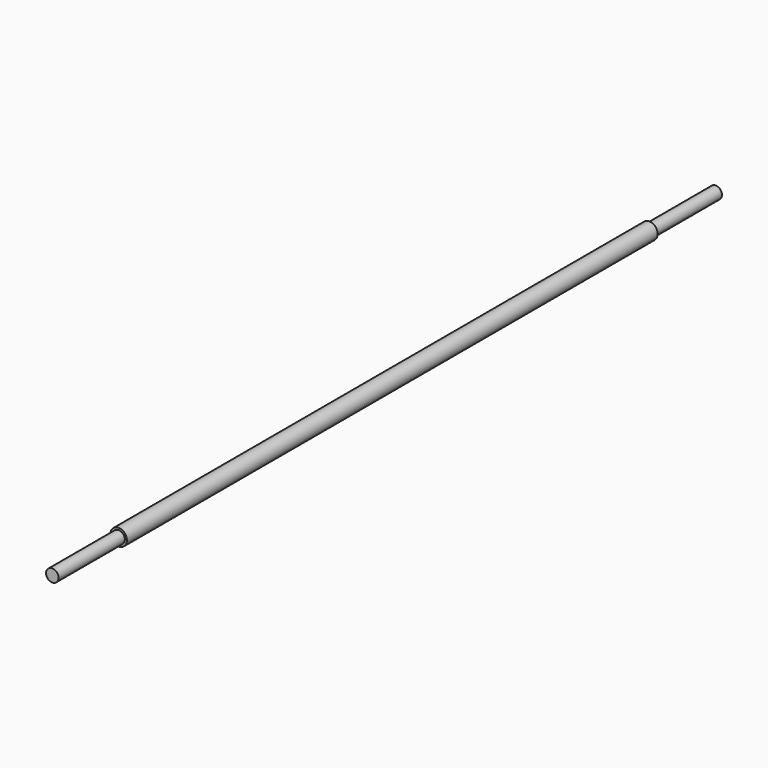
from build123d import *

# Parameters (mm, degrees)
F0_R      = 10
F1_DEPTH  = 500
F1_FACE_R = 10
F2_DEPTH  = 500
F3_R      = 10
F3_R_2    = 7.5
F4_DEPTH  = 100
F5_R      = 10
F5_R_2    = 7.5
F6_DEPTH  = 100


with BuildPart() as f1:
    # F0 (on Front) → F1 (new body)
    with BuildSketch(Plane.XZ):
        Circle(F0_R)
    extrude(amount=F1_DEPTH)

    # F1_face (on face) → F2 (join)
    with BuildSketch(Plane(origin=(0, 0, 0), x_dir=(1, 0, 0), z_dir=(0, 1, 0))):
        Circle(F1_FACE_R)
    extrude(amount=F2_DEPTH)

    # F3 (on face) → F4 (cut)
    with BuildSketch(Plane(origin=(0, 500, 0), x_dir=(-1, 0, 0), z_dir=(0, 1, 0))):
        Circle(F3_R)
        Circle(F3_R_2, mode=Mode.SUBTRACT)
    extrude(amount=-F4_DEPTH, mode=Mode.SUBTRACT)

    # F5 (on face) → F6 (cut)
    with BuildSketch(Plane.XZ.offset(500)):
        Circle(F5_R)
        Circle(F5_R_2, mode=Mode.SUBTRACT)
    extrude(amount=-F6_DEPTH, mode=Mode.SUBTRACT)


solid = f1.part
